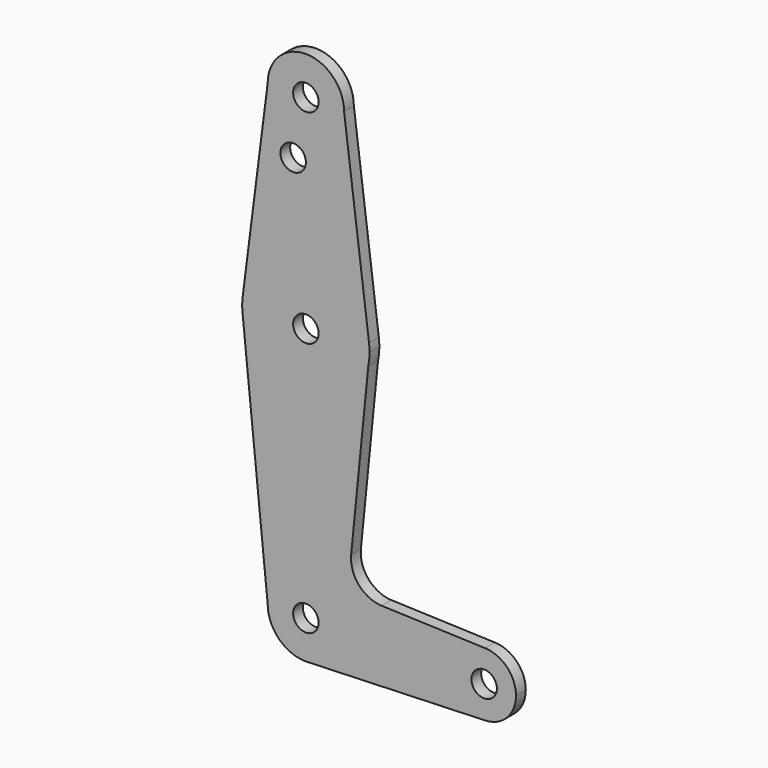
from build123d import *

# Parameters (mm, degrees)
F0_R     = 3.175
F1_DEPTH = 3.048


with BuildPart() as f1:
    # F0 (on Front) → F1 (new body)
    with BuildSketch(Plane.XZ):
        with BuildLine():
            ThreePointArc((-9.525, 114.3), (0, 104.775), (9.525, 114.3))
            ThreePointArc((9.525, 114.3), (0, 123.825), (-9.525, 114.3))
        make_face()
        with Locations((0, 114.3)):
            Circle(F0_R, mode=Mode.SUBTRACT)
        with BuildLine():
            Line((15.747457, 65.508289), (9.525, 114.3))
            ThreePointArc((9.525, 114.3), (0, 104.775), (-9.525, 114.3))
            Line((-9.525, 114.3), (-15.690657, 65.912239))
            ThreePointArc((-15.690657, 65.912239), (0.203962, 79.37369), (15.747457, 65.508289))
        make_face()
        with Locations((-3.175, 100.0252)):
            Circle(F0_R, mode=Mode.SUBTRACT)
        with BuildLine():
            ThreePointArc((15.875, 63.5), (15.843082, 64.506168), (15.747457, 65.508289))
            ThreePointArc((15.747457, 65.508289), (0.203962, 79.37369), (-15.690657, 65.912239))
            Line((-15.690657, 65.912239), (-15.794203, 65.09962))
            ThreePointArc((-15.794203, 65.09962), (-15.875, 63.5), (-15.794203, 61.90038))
            ThreePointArc((-15.794203, 61.90038), (-0.780755, 47.644211), (15.560644, 60.356436))
            Line((15.560644, 60.356436), (15.875, 63.5))
        make_face()
        with Locations((0, 63.5)):
            Circle(F0_R, mode=Mode.SUBTRACT)
        with BuildLine():
            Line((-15.794203, 65.09962), (-15.690657, 65.912239))
            ThreePointArc((-15.690657, 65.912239), (-15.747673, 65.506597), (-15.794203, 65.09962))
        make_face()
        with BuildLine():
            ThreePointArc((15.560644, 60.356436), (15.796215, 61.920378), (15.875, 63.5))
            Line((15.875, 63.5), (15.560644, 60.356436))
        make_face()
        with BuildLine():
            Line((11.283796, 17.587963), (15.560644, 60.356436))
            ThreePointArc((15.560644, 60.356436), (-0.780755, 47.644211), (-15.794203, 61.90038))
            Line((-15.794203, 61.90038), (-9.525, 0))
            ThreePointArc((-9.525, 0), (0, 9.525), (9.525, 0))
            ThreePointArc((9.525, 0), (6.970557, -6.491299), (0.677344, -9.500886))
            Line((0.677344, -9.500886), (44.732405, -7.932475))
            ThreePointArc((44.732405, -7.932475), (36.5125, 0), (44.732405, 7.932475))
            Line((44.732405, 7.932475), (18.911684, 8.851722))
            ThreePointArc((18.911684, 8.851722), (13.205864, 11.567986), (11.283796, 17.587963))
        make_face()
        with BuildLine():
            ThreePointArc((9.525, 0), (0, 9.525), (-9.525, 0))
            ThreePointArc((-9.525, 0), (-6.735192, -6.735192), (0, -9.525))
            Line((0, -9.525), (0.677344, -9.500886))
            ThreePointArc((0.677344, -9.500886), (6.970557, -6.491299), (9.525, 0))
        make_face()
        Circle(F0_R, mode=Mode.SUBTRACT)
        with BuildLine():
            Line((0.677344, -9.500886), (0, -9.525))
            ThreePointArc((0, -9.525), (0.338886, -9.51897), (0.677344, -9.500886))
        make_face()
        with BuildLine():
            ThreePointArc((52.3875, 0), (50.161633, 5.51191), (44.732405, 7.932475))
            ThreePointArc((44.732405, 7.932475), (36.5125, 0), (44.732405, -7.932475))
            ThreePointArc((44.732405, -7.932475), (50.161633, -5.51191), (52.3875, 0))
        make_face()
        with Locations((44.45, 0)):
            Circle(F0_R, mode=Mode.SUBTRACT)
    extrude(amount=F1_DEPTH)


solid = f1.part
